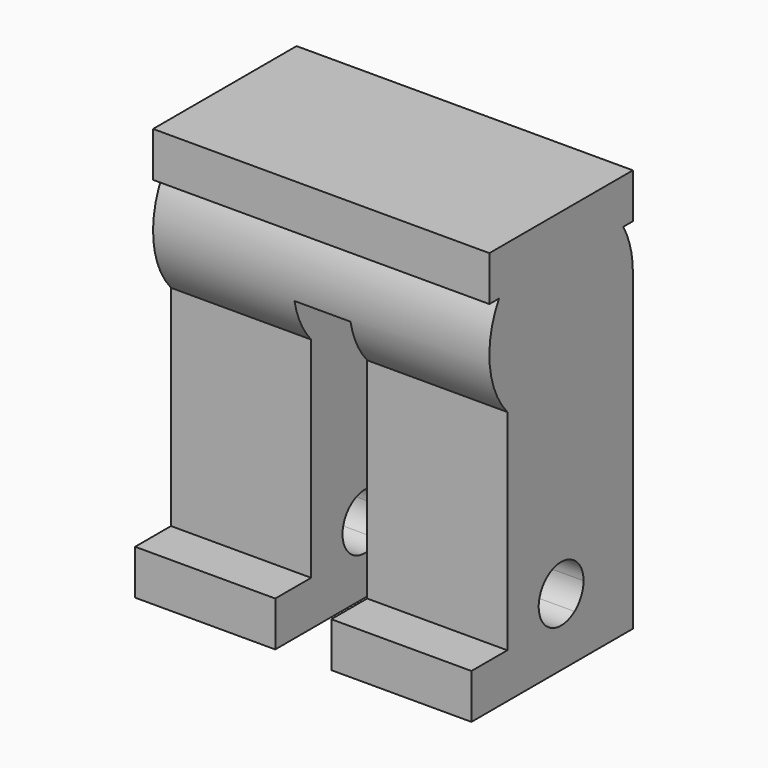
from build123d import *

# Parameters (mm, degrees)
F1_DEPTH = 7.5
F2_R     = 11
F3_DEPTH = 1.25


with BuildPart() as f1:
    # F0 (on Right) → F1 (new body, symmetric)
    with BuildSketch(Plane.YZ):
        with BuildLine():
            Line((4, -1), (4, 1))
            Line((4, 1), (-4, 1))
            Line((-4, 1), (-4, -1))
            Line((-4, -1), (-3.464102, -1))
            ThreePointArc((-3.464102, -1), (-3.980189, -3.397613), (-3, -5.645751))
            Line((-3, -5.645751), (-3, -15))
            Line((-3, -15), (-5, -15))
            Line((-5, -15), (-5, -17))
            Line((-5, -17), (4, -17))
            Line((4, -17), (4, -15))
            Line((4, -15), (4, -3))
            ThreePointArc((4, -3), (3.863703, -1.964724), (3.464102, -1))
            Line((3.464102, -1), (4, -1))
        make_face()
        with BuildLine():
            ThreePointArc((1.25, -14), (1.118034, -14.559017), (0.75, -15))
            ThreePointArc((0.75, -15), (0, -15.25), (-0.75, -15))
            ThreePointArc((-0.75, -15), (-0.559017, -12.881966), (1.25, -14))
        make_face(mode=Mode.SUBTRACT)
    extrude(amount=F1_DEPTH, both=True)

    # F2 (on Right) → F3 (cut, symmetric)
    with BuildSketch(Plane.YZ):
        with Locations((0, -14.027427)):
            Circle(F2_R)
    extrude(amount=F3_DEPTH, both=True, mode=Mode.SUBTRACT)


solid = f1.part
